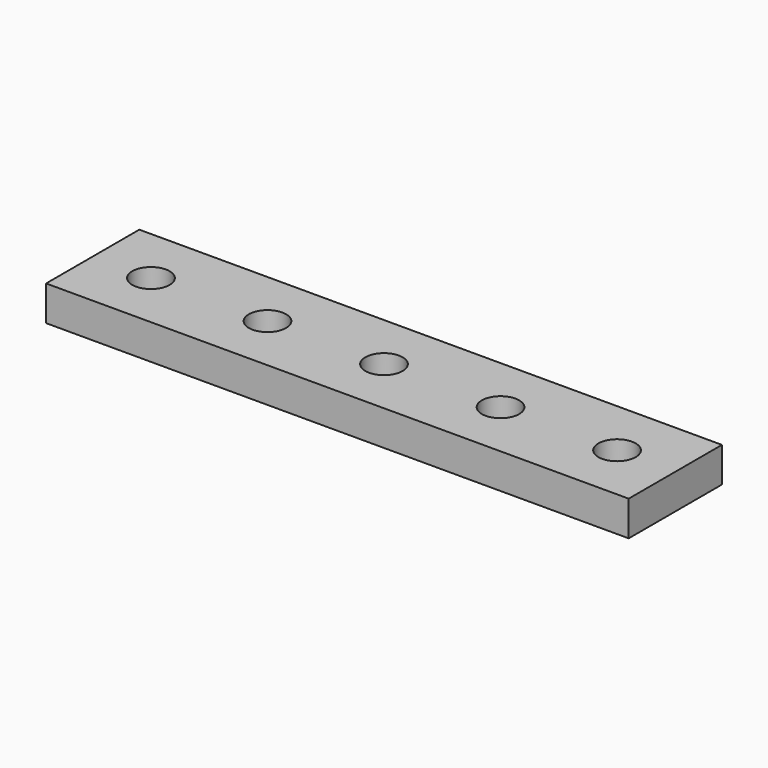
from build123d import *

# Parameters (mm, degrees)
CYLINDER001_R     = 1.6
CYLINDER001_DEPTH = 10
CYLINDER_R        = 1.6
CYLINDER_DEPTH    = 10
CYLINDER002_R     = 1.6
CYLINDER002_DEPTH = 10
CYLINDER003_R     = 1.6
CYLINDER003_DEPTH = 10
CYLINDER004_R     = 1.6
CYLINDER004_DEPTH = 10
BOX_W             = 50
BOX_H             = 10
BOX_DEPTH         = 3


with BuildPart() as cylinder001:
    # Cylinder001 → Cylinder001 (new body)
    with BuildSketch(Plane(origin=(15, 5, -3), x_dir=(1, 0, 0), z_dir=(0, 0, 1))):
        Circle(CYLINDER001_R)
    extrude(amount=CYLINDER001_DEPTH)


with BuildPart() as cylinder:
    # Cylinder → Cylinder (new body)
    with BuildSketch(Plane(origin=(5, 5, -3), x_dir=(1, 0, 0), z_dir=(0, 0, 1))):
        Circle(CYLINDER_R)
    extrude(amount=CYLINDER_DEPTH)


with BuildPart() as cylinder002:
    # Cylinder002 → Cylinder002 (new body)
    with BuildSketch(Plane(origin=(25, 5, -3), x_dir=(1, 0, 0), z_dir=(0, 0, 1))):
        Circle(CYLINDER002_R)
    extrude(amount=CYLINDER002_DEPTH)


with BuildPart() as cylinder003:
    # Cylinder003 → Cylinder003 (new body)
    with BuildSketch(Plane(origin=(35, 5, -3), x_dir=(1, 0, 0), z_dir=(0, 0, 1))):
        Circle(CYLINDER003_R)
    extrude(amount=CYLINDER003_DEPTH)


with BuildPart() as fusion:
    # Cylinder004 → Cylinder004 (new body)
    with BuildSketch(Plane(origin=(45, 5, -3), x_dir=(1, 0, 0), z_dir=(0, 0, 1))):
        Circle(CYLINDER004_R)
    extrude(amount=CYLINDER004_DEPTH)

    # Fusion: union Cylinder001, Cylinder, Cylinder002, Cylinder003
    add(cylinder001.part)
    add(cylinder.part)
    add(cylinder002.part)
    add(cylinder003.part)


with BuildPart() as cut:
    # Box → Box (new body)
    with BuildSketch(Plane.XY):
        with Locations((25, 5)):
            Rectangle(BOX_W, BOX_H)
    extrude(amount=BOX_DEPTH)

    # Cut: cut Fusion
    add(fusion.part, mode=Mode.SUBTRACT)


solid = cut.part
